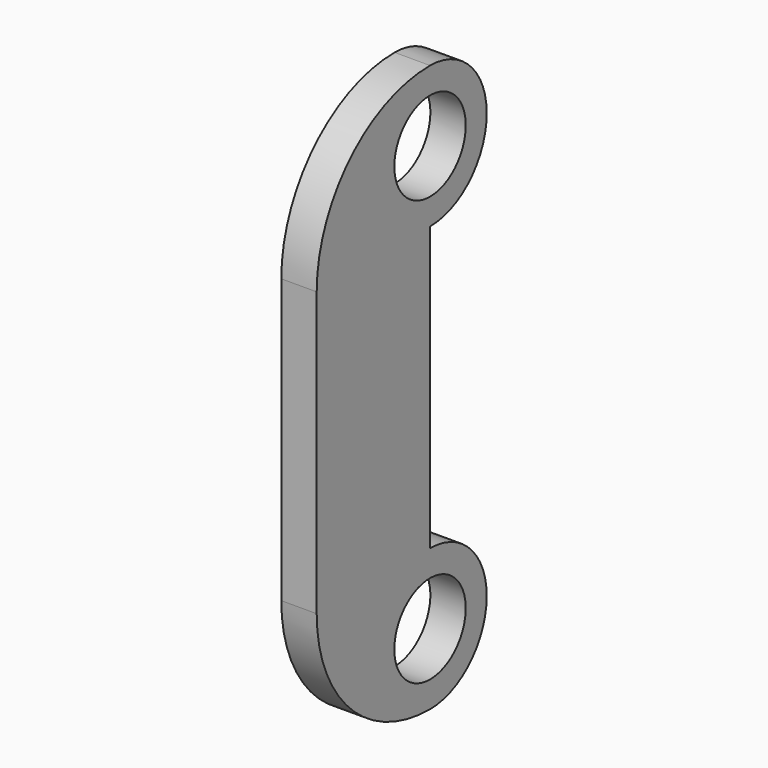
from build123d import *

# Parameters (mm, degrees)
F1_DEPTH = 0.79375
F3_D     = 4


with BuildPart() as f1:
    # F0 (on Right) → F1 (new body, symmetric)
    with BuildSketch(Plane.YZ):
        with BuildLine():
            ThreePointArc((3.175, 12.7), (-1.315128, 10.840128), (-3.175, 6.35))
            Line((-3.175, 6.35), (-3.175, -6.35))
            ThreePointArc((-3.175, -6.35), (-1.315128, -10.840128), (3.175, -12.7))
            ThreePointArc((3.175, -12.7), (6.35, -9.525), (3.175, -6.35))
            Line((3.175, -6.35), (3.175, 6.35))
            ThreePointArc((3.175, 6.35), (6.35, 9.525), (3.175, 12.7))
        make_face()
    extrude(amount=F1_DEPTH, both=True)

    # F3 (through all)
    with Locations(Plane.YZ.offset(0.79375)):
        with Locations((3.175, 9.525), (3.175, -9.525)):
            Hole(F3_D / 2)


solid = f1.part
